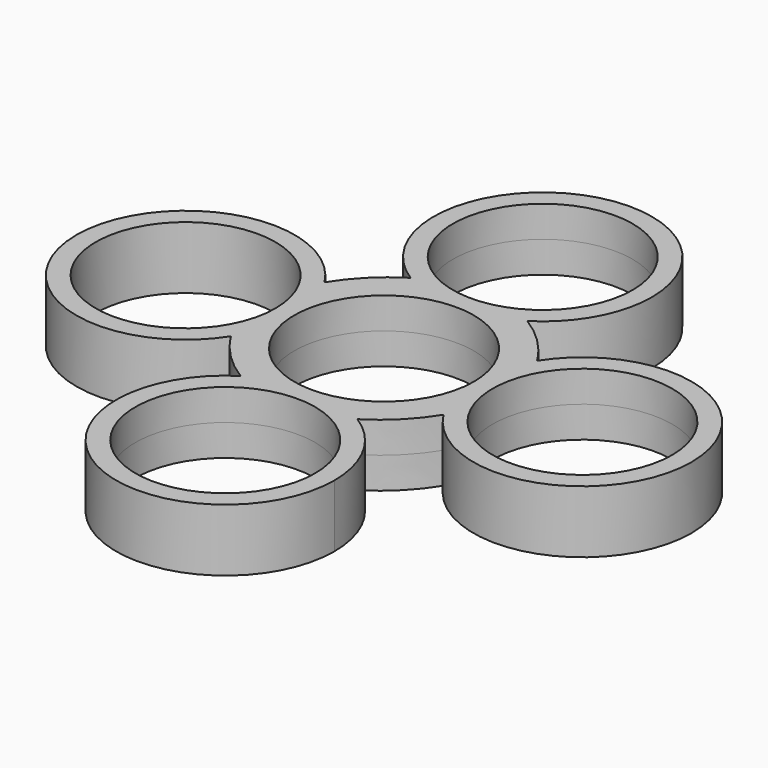
from build123d import *

# Parameters (mm, degrees)
F2_DEPTH = 4
F0_R     = 11.5
F3_DEPTH = 4


with BuildPart() as f2:
    # F1 (on Top) → F2 (new body, symmetric)
    with BuildSketch(Plane.XY):
        with BuildLine():
            ThreePointArc((-13.5999908393, -7.4780133596), (-11.983461177, -3.8932487735), (-11.43, 0))
            ThreePointArc((-11.43, 0), (-11.9830626174, 3.891875033), (-13.5984597383, 7.4755967957))
            add(Edge.make_bspline(
                [(-15.8525407314, 0), (-15.8522471897, 2.5837824299), (-15.0093024718, 5.1671341097), (-13.5984597383, 7.4755967957)],
                knots=[0, 0, 0, 0, 0.0815141474, 0.0815141474, 0.0815141474, 0.0815141474], degree=3))
            add(Edge.make_bspline(
                [(-13.5999908393, -7.4780133596), (-15.0104036313, -5.1682195796), (-15.8528342859, -2.583894396), (-15.8525407314, 0)],
                knots=[0.9184823203, 0.9184823203, 0.9184823203, 0.9184823203, 1, 1, 1, 1], degree=3))
        make_face()
        with BuildLine():
            ThreePointArc((-13.5984597383, 7.4755967957), (-11.9830626174, 3.891875033), (-11.43, 0))
            ThreePointArc((-11.43, 0), (-11.983461177, -3.8932487735), (-13.5999908393, -7.4780133596))
            add(Edge.make_bspline(
                [(-7.4785417751, -13.6003257283), (-9.9432134858, -12.0948774028), (-12.0949702136, -9.9427437558), (-13.5999908393, -7.4780133596)],
                knots=[0.8314965882, 0.8314965882, 0.8314965882, 0.8314965882, 0.9184823203, 0.9184823203, 0.9184823203, 0.9184823203], degree=3))
            ThreePointArc((-7.4785417751, -13.6003257283), (0.0002714697, -11.4300000026), (7.4790003598, -13.6006163882))
            add(Edge.make_bspline(
                [(13.6008490507, -7.4793674115), (12.0955450693, -9.9436905864), (9.9436552045, -12.0954300948), (7.4790003598, -13.6006163882)],
                knots=[0.5814918981, 0.5814918981, 0.5814918981, 0.5814918981, 0.6684682369, 0.6684682369, 0.6684682369, 0.6684682369], degree=3))
            ThreePointArc((13.6008490507, -7.4793674115), (11.4300000733, -0.0014306429), (13.5993174007, 7.4769505944))
            add(Edge.make_bspline(
                [(7.4718602429, 13.5960936758), (9.9386630737, 12.0924010227), (12.0926316746, 9.941363048), (13.5993174007, 7.4769505944)],
                knots=[0.3314005666, 0.3314005666, 0.3314005666, 0.3314005666, 0.4184264481, 0.4184264481, 0.4184264481, 0.4184264481], degree=3))
            ThreePointArc((7.4718602429, 13.5960936758), (0.0002712159, 11.4300000026), (-7.4714019113, 13.5958035648))
            add(Edge.make_bspline(
                [(-13.5984597383, 7.4755967957), (-12.0920574929, 9.9404167869), (-9.9382219246, 12.0918490046), (-7.4714019113, 13.5958035648)],
                knots=[0.0815141474, 0.0815141474, 0.0815141474, 0.0815141474, 0.168549429, 0.168549429, 0.168549429, 0.168549429], degree=3))
        make_face()
        with BuildLine():
            add(Edge.make_bspline(
                [(-15.8525407314, 0), (-15.8522471897, 2.5837824299), (-15.0093024718, 5.1671341097), (-13.5984597383, 7.4755967957)],
                knots=[0, 0, 0, 0, 0.0815141474, 0.0815141474, 0.0815141474, 0.0815141474], degree=3))
            ThreePointArc((-13.5984597383, 7.4755967957), (-39.3699999268, 0.001430389), (-13.5999908393, -7.4780133596))
            add(Edge.make_bspline(
                [(-13.5999908393, -7.4780133596), (-15.0104036313, -5.1682195796), (-15.8528342859, -2.583894396), (-15.8525407314, 0)],
                knots=[0.9184823203, 0.9184823203, 0.9184823203, 0.9184823203, 1, 1, 1, 1], degree=3))
        make_face()
        with BuildLine():
            add(Edge.make_bspline(
                [(-7.4714019113, 13.5958035648), (-5.1635862062, 15.0028174269), (-6.01624e-05, 16.6834550003), (5.1637921907, 15.0030261348), (7.4718602429, 13.5960936758)],
                knots=[0.168549429, 0.168549429, 0.168549429, 0.168549429, 0.2499746601, 0.3314005666, 0.3314005666, 0.3314005666, 0.3314005666], degree=3))
            ThreePointArc((-7.4714019113, 13.5958035648), (0.0002712159, 11.4300000026), (7.4718602429, 13.5960936758))
        make_face()
        with BuildLine():
            ThreePointArc((13.97, 25.4), (-6.7374110495, 37.6379815472), (-7.4714019113, 13.5958035648))
            add(Edge.make_bspline(
                [(-7.4714019113, 13.5958035648), (-5.1635862062, 15.0028174269), (-6.01624e-05, 16.6834550003), (5.1637921907, 15.0030261348), (7.4718602429, 13.5960936758)],
                knots=[0.168549429, 0.168549429, 0.168549429, 0.168549429, 0.2499746601, 0.3314005666, 0.3314005666, 0.3314005666, 0.3314005666], degree=3))
            ThreePointArc((7.4718602429, 13.5960936758), (12.2381123461, 18.662826542), (13.97, 25.4))
        make_face()
        with BuildLine():
            add(Edge.make_bspline(
                [(7.4790003598, -13.6006163882), (5.169117738, -15.0112819299), (-6.05056e-05, -16.6968060532), (-5.1689117665, -15.0110728934), (-7.4785417751, -13.6003257283)],
                knots=[0.6684682369, 0.6684682369, 0.6684682369, 0.6684682369, 0.7499827475, 0.8314965882, 0.8314965882, 0.8314965882, 0.8314965882], degree=3))
            ThreePointArc((-7.4785417751, -13.6003257283), (-6.7337089112, -37.6400189664), (13.97, -25.4))
            ThreePointArc((13.97, -25.4), (12.2401498158, -18.6665289421), (7.4790003598, -13.6006163882))
        make_face()
        with BuildLine():
            ThreePointArc((7.4790003598, -13.6006163882), (0.0002714697, -11.4300000026), (-7.4785417751, -13.6003257283))
            add(Edge.make_bspline(
                [(7.4790003598, -13.6006163882), (5.169117738, -15.0112819299), (-6.05056e-05, -16.6968060532), (-5.1689117665, -15.0110728934), (-7.4785417751, -13.6003257283)],
                knots=[0.6684682369, 0.6684682369, 0.6684682369, 0.6684682369, 0.7499827475, 0.8314965882, 0.8314965882, 0.8314965882, 0.8314965882], degree=3))
        make_face()
        with BuildLine():
            add(Edge.make_bspline(
                [(13.5993174007, 7.4769505944), (15.010869159, 5.1681441381), (16.697763129, 0.000319146), (15.0119706471, -5.1692295952), (13.6008490507, -7.4793674115)],
                knots=[0.4184264481, 0.4184264481, 0.4184264481, 0.4184264481, 0.4999574097, 0.5814918981, 0.5814918981, 0.5814918981, 0.5814918981], degree=3))
            ThreePointArc((13.5993174007, 7.4769505944), (11.4300000733, -0.0014306429), (13.6008490507, -7.4793674115))
        make_face()
        with BuildLine():
            ThreePointArc((39.37, 0), (29.292644608, 13.4167141266), (13.5993174007, 7.4769505944))
            add(Edge.make_bspline(
                [(13.5993174007, 7.4769505944), (15.010869159, 5.1681441381), (16.697763129, 0.000319146), (15.0119706471, -5.1692295952), (13.6008490507, -7.4793674115)],
                knots=[0.4184264481, 0.4184264481, 0.4184264481, 0.4184264481, 0.4999574097, 0.5814918981, 0.5814918981, 0.5814918981, 0.5814918981], degree=3))
            ThreePointArc((13.6008490507, -7.4793674115), (29.2940185695, -13.4163154175), (39.37, 0))
        make_face()
    extrude(amount=F2_DEPTH, both=True)

    # F0 (on Top) → F3 (cut, symmetric)
    with BuildSketch(Plane.XY):
        Circle(F0_R)
        with Locations((0, -25.4)):
            Circle(F0_R)
        with Locations((25.4, 0)):
            Circle(F0_R)
        with Locations((0, 25.4)):
            Circle(F0_R)
        with Locations((-25.4, 0)):
            Circle(F0_R)
    extrude(amount=F3_DEPTH, both=True, mode=Mode.SUBTRACT)


solid = f2.part
